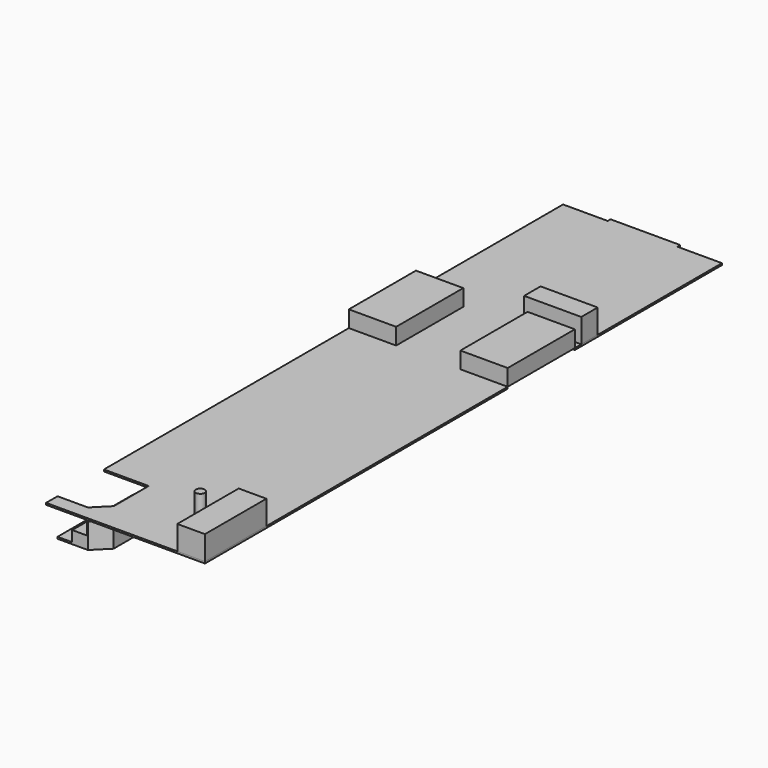
from build123d import *

# Parameters (mm, degrees)
F0_W      = 1016
F0_H      = 1930.4
F0_W_2    = 914.4
F0_H_2    = 1193.8
F0_W_3    = 990.6
F0_H_3    = 50.8
F1_DEPTH  = 25.4
F0_W_4    = 673.1
F2_DEPTH  = 234.95
F4_W      = 812.8
F4_H      = 292.1
F5_DEPTH  = 342.9
F4_R      = 63.5
F4_W_2    = 393.7
F4_H_2    = 1092.2
F6_DEPTH  = 177.8
F0_W_5    = 209.1705223083
F0_H_4    = 825.1261469057
F0_W_6    = 208.4766030312
F7_DEPTH  = 533.4
F8_DEPTH  = 508
F9_DEPTH  = 355.6
F10_DEPTH = 177.8


with BuildPart() as f1:
    # F0 (on Top) → F1 (new body)
    with BuildSketch(Plane.XY):
        Polygon((-1244.6, 0), (0, 0), (0, 1930.4), (-203.2, 1930.4), (-203.2, 4064), (1016, 4064), (1016, 4165.6), (342.9, 4165.6), (-571.5, 4165.6), (-1244.6, 4165.6), (-1244.6, 1651), (-635, 1270), (-635, 635), (-1244.6, 635), align=None)
        Polygon((-203.2, 1930.4), (0, 1930.4), (1016, 1930.4), (1016, 4064), (-203.2, 4064), align=None)
        with Locations((508, 965.2)):
            Rectangle(F0_W, F0_H)
        Polygon((-1244.6, 1244.6), (-1244.6, 635), (-635, 635), (-635, 1270), (-1244.6, 1651), align=None)
        with Locations((-114.3, 4762.5)):
            Rectangle(F0_W_2, F0_H_2)
        Polygon((342.9, 5359.4), (1016, 5359.4), (1016, 7975.6), (381, 7975.6), (-609.6, 7975.6), (-1244.6, 7975.6), (-1244.6, 5359.4), (-571.5, 5359.4), align=None)
        with Locations((-114.3, 8001)):
            Rectangle(F0_W_3, F0_H_3)
        Polygon((1016, 0), (0, 0), (-1244.6, 0), (-1244.6, -190.5), (-1035.4294776917, -190.5), (-826.9528746605, -190.5), (-609.1586947441, -190.5), (-596.9, -190.5), (-596.9, -800.1), (-609.1586947441, -812.3586947441), (-812.4261469057, -1015.6261469057), (-826.9528746605, -1015.6261469057), (-1035.4294776917, -1015.6261469057), (-1244.6, -1015.6261469057), (-1244.6, -1219.2), (1016, -1219.2), align=None)
    extrude(amount=-F1_DEPTH)


with BuildPart() as f2:
    # F0 (on Top) → F2 (new body)
    with BuildSketch(Plane.XY):
        with Locations((-908.05, 4762.5)):
            Rectangle(F0_W_4, F0_H_2)
    extrude(amount=F2_DEPTH)


with BuildPart() as f2b:
    # F0 (on Top) → F2, piece 2 (new body)
    with BuildSketch(Plane.XY):
        with Locations((679.45, 4762.5)):
            Rectangle(F0_W_4, F0_H_2)
    extrude(amount=F2_DEPTH)


with BuildPart() as f5:
    # F4 (on face) → F5 (new body)
    with BuildSketch(Plane.XY):
        with Locations((609.6, 5619.75)):
            Rectangle(F4_W, F4_H)
    extrude(amount=F5_DEPTH)


with BuildPart() as f5b:
    # F4 (on face) → F5, piece 2 (new body)
    with BuildSketch(Plane.XY):
        with Locations((330.2, -444.5)):
            Circle(F4_R)
    extrude(amount=F5_DEPTH)


with BuildPart() as f5c:
    # F4 (on face) → F5, piece 3 (new body)
    with BuildSketch(Plane.XY):
        with Locations((819.15, -673.1)):
            Rectangle(F4_W_2, F4_H_2)
    extrude(amount=F5_DEPTH)


with BuildPart() as f6:
    # F0 (on Top) → F6 (new body)
    with BuildSketch(Plane.XY):
        Polygon((-596.9, -190.5), (-609.1586947441, -190.5), (-609.1586947441, -812.3586947441), (-596.9, -800.1), align=None)
    extrude(amount=-F6_DEPTH)


with BuildPart() as f7:
    # F0 (on Top) → F7 (new body)
    with BuildSketch(Plane.XY):
        with Locations((-1140.0147388458, -603.0630734528)):
            Rectangle(F0_W_5, F0_H_4)
        with Locations((-931.1911761761, -603.0630734528)):
            Rectangle(F0_W_6, F0_H_4)
        Polygon((-609.1586947441, -190.5), (-826.9528746605, -190.5), (-826.9528746605, -1015.6261469057), (-812.4261469057, -1015.6261469057), (-609.1586947441, -812.3586947441), align=None)
    extrude(amount=-F7_DEPTH)

    # F0 (on Top) → F8 (cut)
    with BuildSketch(Plane.XY):
        with Locations((-1140.0147388458, -603.0630734528)):
            Rectangle(F0_W_5, F0_H_4)
    extrude(amount=-F8_DEPTH, mode=Mode.SUBTRACT)

    # F0 (on Top) → F9 (cut)
    with BuildSketch(Plane.XY):
        with Locations((-931.1911761761, -603.0630734528)):
            Rectangle(F0_W_6, F0_H_4)
    extrude(amount=-F9_DEPTH, mode=Mode.SUBTRACT)

    # F0 (on Top) → F10 (cut)
    with BuildSketch(Plane.XY):
        Polygon((-609.1586947441, -190.5), (-826.9528746605, -190.5), (-826.9528746605, -1015.6261469057), (-812.4261469057, -1015.6261469057), (-609.1586947441, -812.3586947441), align=None)
    extrude(amount=-F10_DEPTH, mode=Mode.SUBTRACT)


solid = Compound([f1.part, f2.part, f2b.part, f5.part, f5b.part, f5c.part, f6.part, f7.part])
